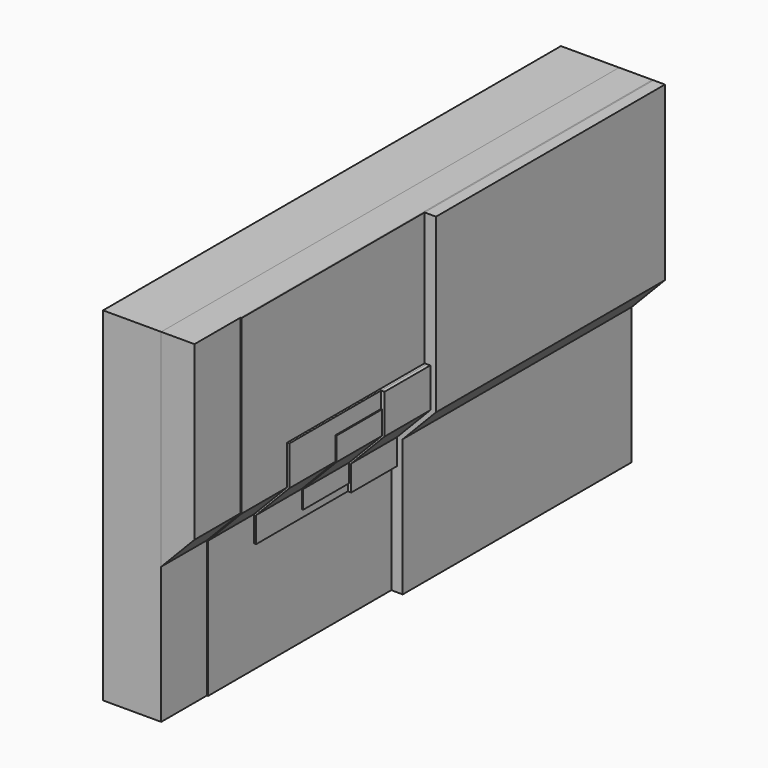
from build123d import *

# Parameters (mm, degrees)
F1_DEPTH = 254
F0_W     = 14.7733949125
F0_H     = 76.4283165336
F2_DEPTH = 254
F3_DEPTH = 254
F4_DEPTH = 228.6
F5_DEPTH = 203.2
F6_DEPTH = 177.8
F7_DEPTH = 152.4
F8_DEPTH = 127


with BuildPart() as f1:
    # F0 (on Front) → F1 (new body)
    with BuildSketch(Plane.XZ):
        Polygon((-50.4037477076, 76.4283165336), (-76.2183219194, 76.4283165336), (-76.2183219194, -75.9709477425), (-50.4037477076, -75.9709477425), (-50.4037477076, -15.3222624213), (-50.4037477076, 0), align=None)
    extrude(amount=F1_DEPTH)


with BuildPart() as f2:
    # F0 (on Front) → F2 (new body)
    with BuildSketch(Plane.XZ):
        with Locations((-43.0170502514, 38.2141582668)):
            Rectangle(F0_W, F0_H)
    extrude(amount=F2_DEPTH)

    # F0 (on Front) → F3 (join)
    with BuildSketch(Plane.XZ):
        Polygon((-35.6303527951, 0), (-50.4037477076, 0), (-50.4037477076, -15.3222624213), align=None)
    extrude(amount=F3_DEPTH)


with BuildPart() as f4:
    # F0 (on Front) → F4 (new body)
    with BuildSketch(Plane.XZ):
        Polygon((-35.1223527951, 76.4283165336), (-35.6303527951, 76.4283165336), (-35.6303527951, 0), (-50.4037477076, -15.3222624213), (-50.4037477076, -75.9709477425), (-49.8957477076, -75.9709477425), (-49.8957477076, -26.6744550318), (-49.8957477076, -15.3222624213), (-35.1223527951, 0), (-35.1223527951, 17.490234226), align=None)
    extrude(amount=F4_DEPTH)


with BuildPart() as f5:
    # F0 (on Front) → F5 (new body)
    with BuildSketch(Plane.XZ):
        Polygon((-34.1063527951, 17.490234226), (-35.1223527951, 17.490234226), (-35.1223527951, 0), (-49.8957477076, -15.3222624213), (-49.8957477076, -26.6744550318), (-48.8797477076, -26.6744550318), (-48.8797477076, -23.4087556601), (-48.8797477076, -15.3222624213), (-34.1063527951, 0), (-34.1063527951, 10.3367986158), align=None)
    extrude(amount=F5_DEPTH)


with BuildPart() as f6:
    # F0 (on Front) → F6 (new body)
    with BuildSketch(Plane.XZ):
        Polygon((-33.5983527951, 10.3367986158), (-34.1063527951, 10.3367986158), (-34.1063527951, 0), (-48.8797477076, -15.3222624213), (-48.8797477076, -23.4087556601), (-48.3717477076, -23.4087556601), (-48.3717477076, -15.3222624213), (-33.5983527951, 0), align=None)
    extrude(amount=F6_DEPTH)


with BuildPart() as f7:
    # F0 (on Front) → F7 (new body)
    with BuildSketch(Plane.XZ):
        Polygon((-32.5823527951, 17.490234226), (-34.1063527951, 17.490234226), (-34.1063527951, 10.3367986158), (-33.5983527951, 10.3367986158), (-33.5983527951, 0), (-48.3717477076, -15.3222624213), (-48.3717477076, -23.4087556601), (-48.8797477076, -23.4087556601), (-48.8797477076, -26.6744550318), (-47.3557477076, -26.6744550318), (-47.3557477076, -15.3222624213), (-32.5823527951, 0), align=None)
    extrude(amount=F7_DEPTH)


with BuildPart() as f8:
    # F0 (on Front) → F8 (new body)
    with BuildSketch(Plane.XZ):
        Polygon((-30.0423527951, 76.4283165336), (-35.1223527951, 76.4283165336), (-35.1223527951, 17.490234226), (-34.1063527951, 17.490234226), (-32.5823527951, 17.490234226), (-32.5823527951, 0), (-47.3557477076, -15.3222624213), (-47.3557477076, -26.6744550318), (-48.8797477076, -26.6744550318), (-49.8957477076, -26.6744550318), (-49.8957477076, -75.9709477425), (-44.8157477076, -75.9709477425), (-44.8157477076, -15.3222624213), (-30.0423527951, 0), align=None)
    extrude(amount=F8_DEPTH)


solid = Compound([f1.part, f2.part, f4.part, f5.part, f6.part, f7.part, f8.part])
